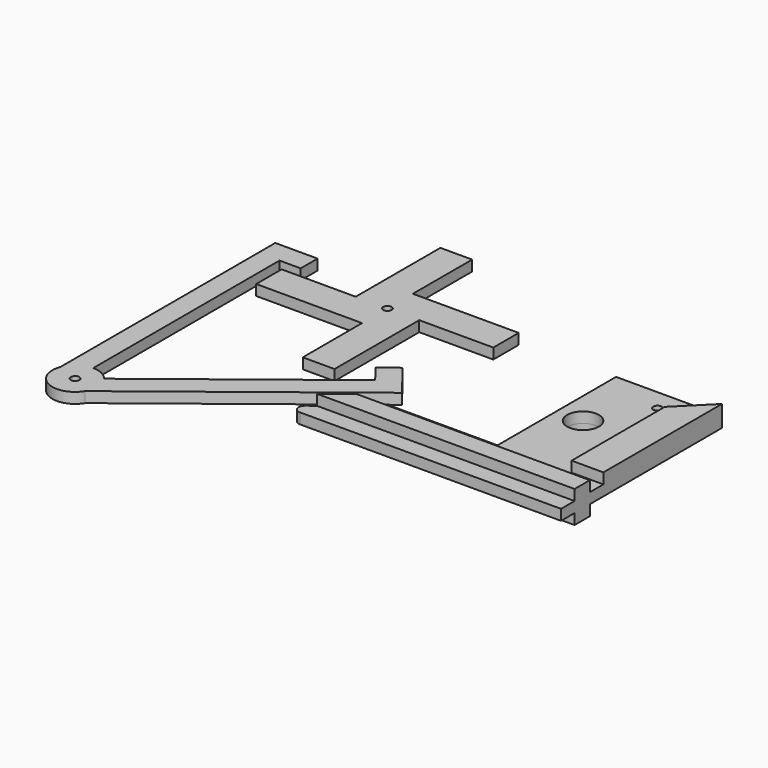
from build123d import *

# Parameters (mm, degrees)
F1_DEPTH  = 5
F3_R      = 2
F4_DEPTH  = 5
F6_DEPTH  = 5
F7_R      = 7.5
F8_DEPTH  = 5.001
F10_DEPTH = 5
F12_DEPTH = 5
F2_R      = 2
F13_DEPTH = 5
F15_DEPTH = 15
F16_W     = 20
F16_H     = 20
F17_DEPTH = 5


with BuildPart() as f1:
    # F0 (on Top) → F1 (new body)
    with BuildSketch(Plane.XY):
        with BuildLine():
            ThreePointArc((0, 2), (1.414214, 1.414214), (2, 0))
            Line((2, 0), (15, 0))
            Line((15, 0), (50, 0))
            Line((50, 0), (50, 15))
            Line((50, 15), (0, 15))
            Line((0, 15), (0, 2))
        make_face()
        with BuildLine():
            Line((15, 0), (2, 0))
            ThreePointArc((2, 0), (1.414214, -1.414214), (0, -2))
            Line((0, -2), (0, -15))
            Line((0, -15), (0, -50))
            Line((0, -50), (15, -50))
            Line((15, -50), (15, 0))
        make_face()
        with BuildLine():
            Line((0, -15), (0, -2))
            ThreePointArc((0, -2), (-1.414214, -1.414214), (-2, 0))
            Line((-2, 0), (-15, 0))
            Line((-15, 0), (-50, 0))
            Line((-50, 0), (-50, -15))
            Line((-50, -15), (0, -15))
        make_face()
        with BuildLine():
            Line((-15, 0), (-2, 0))
            ThreePointArc((-2, 0), (-1.414214, 1.414214), (0, 2))
            Line((0, 2), (0, 15))
            Line((0, 15), (0, 50))
            Line((0, 50), (-15, 50))
            Line((-15, 50), (-15, 0))
        make_face()
    extrude(amount=F1_DEPTH)


with BuildPart() as f4:
    # F3 (on Top) → F4 (new body)
    with BuildSketch(Plane.XY):
        with BuildLine():
            Line((150, 10), (100, 10))
            Line((100, 10), (100, -60))
            Line((100, -60), (51.032983, -60))
            ThreePointArc((51.032983, -60), (50.056278, -60.163444), (49.185998, -60.635968))
            Line((49.185998, -60.635968), (24.867107, -79.635968))
            ThreePointArc((24.867107, -79.635968), (23.877536, -82.976704), (26.714092, -85))
            Line((26.714092, -85), (150, -85))
            Line((150, -85), (150, 10))
        make_face()
        with Locations((127.5, 0)):
            Circle(F3_R, mode=Mode.SUBTRACT)
    extrude(amount=F4_DEPTH)

    # F5 (on face) → F6 (join)
    with BuildSketch(Plane.XY.offset(5)):
        Polygon((150, -60), (150, 10), (135, -5), (135, -60), align=None)
    extrude(amount=F6_DEPTH)

    # F7 (on face) → F8 (cut, through all)
    with BuildSketch(Plane.XY.offset(5)):
        with Locations((112.4, -25)):
            Circle(F7_R)
    extrude(amount=-F8_DEPTH, mode=Mode.SUBTRACT)

    # F9 (on face) → F10 (join)
    with BuildSketch(Plane.XY.offset(5)):
        Polygon((28.240992, -77), (150, -77), (150, -68), (39.760467, -68), align=None)
    extrude(amount=F10_DEPTH)

    # F11 (on face) → F12 (join)
    with BuildSketch(Plane(origin=(0, 0, 0), x_dir=(1, 0, 0), z_dir=(0, 0, -1))):
        Polygon((150, 68), (150, 77), (28.240992, 77), (39.760467, 68), align=None)
    extrude(amount=F12_DEPTH)

    # F14 (on face) → F15 (join)
    with BuildSketch(Plane(origin=(0, 0, 0), x_dir=(1, 0, 0), z_dir=(0, 0, -1))):
        with BuildLine():
            Line((102.4, 35), (102.4, 15))
            Line((102.4, 15), (122.4, 15))
            Line((122.4, 15), (122.4, 21))
            Line((122.4, 21), (118.744289, 21))
            ThreePointArc((118.744289, 21), (104.9, 25), (118.744289, 29))
            Line((118.744289, 29), (122.4, 29))
            Line((122.4, 29), (122.4, 35))
            Line((122.4, 35), (102.4, 35))
        make_face()
    extrude(amount=F15_DEPTH)

    # F16 (on face) → F17 (join)
    with BuildSketch(Plane(origin=(0, 0, -15), x_dir=(1, 0, 0), z_dir=(0, 0, -1))):
        with Locations((112.4, 25)):
            Rectangle(F16_W, F16_H)
    extrude(amount=F17_DEPTH)


with BuildPart() as f13:
    # F2 (on Top) → F13 (new body)
    with BuildSketch(Plane.XY):
        with BuildLine():
            Line((-55, -105.000322), (-55, 4.999678))
            Line((-55, 4.999678), (-45, 4.999678))
            Line((-45, 4.999678), (-45, 14.999678))
            Line((-45, 14.999678), (-65, 14.999678))
            Line((-65, 14.999678), (-65, -111.874514))
            ThreePointArc((-65, -111.874514), (-61.067424, -106.884619), (-55, -105.000322))
        make_face()
        with BuildLine():
            ThreePointArc((-46.55987, -109.116848), (-50.304748, -106.084306), (-55, -105.000322))
            ThreePointArc((-55, -105.000322), (-61.067424, -106.884619), (-65, -111.874514))
            ThreePointArc((-65, -111.874514), (-59.695252, -125.337694), (-45.820193, -121.229131))
            ThreePointArc((-45.820193, -121.229131), (-44.679133, -118.574273), (-44.289322, -115.711))
            ThreePointArc((-44.289322, -115.711), (-44.872855, -112.223944), (-46.55987, -109.116848))
        make_face()
        with Locations((-55, -115.711)):
            Circle(F2_R, mode=Mode.SUBTRACT)
        with BuildLine():
            Line((32.241205, -47.550701), (-46.55987, -109.116848))
            ThreePointArc((-46.55987, -109.116848), (-44.872855, -112.223944), (-44.289322, -115.711))
            ThreePointArc((-44.289322, -115.711), (-44.679133, -118.574273), (-45.820193, -121.229131))
            Line((-45.820193, -121.229131), (46.277927, -49.274193))
            Line((46.277927, -49.274193), (40.121312, -41.394086))
            Line((40.121312, -41.394086), (33.964698, -33.513978))
            Line((33.964698, -33.513978), (26.08459, -39.670593))
            Line((26.08459, -39.670593), (32.241205, -47.550701))
        make_face()
    extrude(amount=F13_DEPTH)


solid = Compound([f1.part, f4.part, f13.part])
